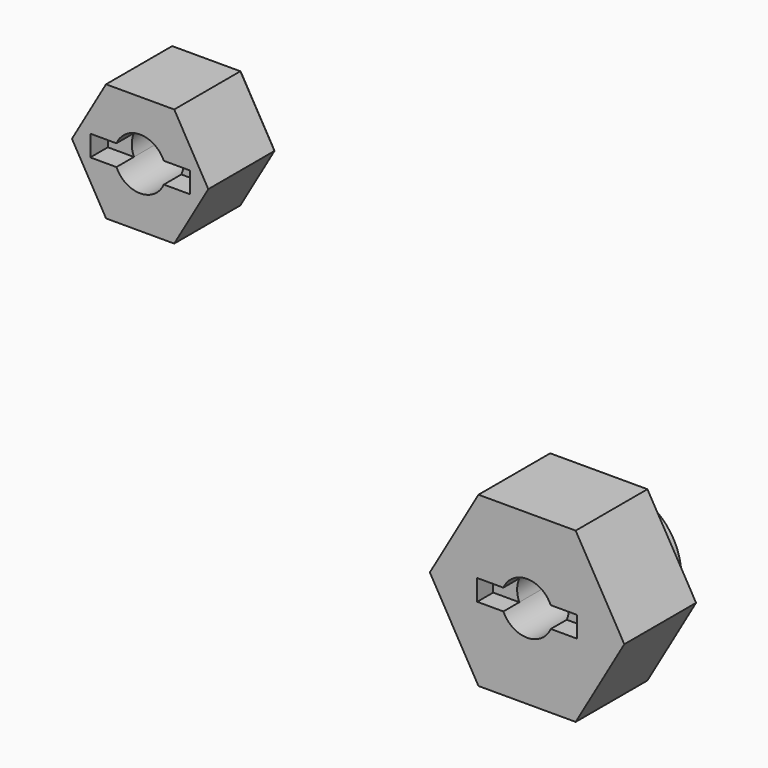
from build123d import *

# Parameters (mm, degrees)
F1_DEPTH = 9
F2_DEPTH = 6.8
F3_SIZE  = 0.7
F4_R     = 5.875
F5_DEPTH = 9
F6_DEPTH = 7
F7_DEPTH = 3


with BuildPart() as f1:
    # F0 (on Front) → F1 (new body)
    with BuildSketch(Plane.XZ):
        Polygon((-35.409845, 32.054033), (-42.251446, 32.054033), (-45.672246, 26.129033), (-42.251446, 20.204033), (-35.409845, 20.204033), (-31.989045, 26.129033), align=None)
        with BuildLine():
            ThreePointArc((-41.209195, 27.179033), (-38.830645, 28.729033), (-36.452095, 27.179033))
            Line((-36.452095, 27.179033), (-33.830645, 27.179033))
            Line((-33.830645, 27.179033), (-33.830645, 25.079033))
            Line((-33.830645, 25.079033), (-36.452095, 25.079033))
            ThreePointArc((-36.452095, 25.079033), (-38.830645, 23.529033), (-41.209195, 25.079033))
            Line((-41.209195, 25.079033), (-43.830645, 25.079033))
            Line((-43.830645, 25.079033), (-43.830645, 27.179033))
            Line((-43.830645, 27.179033), (-41.209195, 27.179033))
        make_face(mode=Mode.SUBTRACT)
    extrude(amount=F1_DEPTH)

    # F0 (on Front) → F2 (join)
    with BuildSketch(Plane.XZ):
        with BuildLine():
            ThreePointArc((-41.209195, 25.079033), (-41.430645, 26.129033), (-41.209195, 27.179033))
            Line((-41.209195, 27.179033), (-43.830645, 27.179033))
            Line((-43.830645, 27.179033), (-43.830645, 25.079033))
            Line((-43.830645, 25.079033), (-41.209195, 25.079033))
        make_face()
        with BuildLine():
            ThreePointArc((-36.452095, 27.179033), (-36.28661, 26.665583), (-36.230645, 26.129033))
            ThreePointArc((-36.230645, 26.129033), (-36.28661, 25.592484), (-36.452095, 25.079033))
            Line((-36.452095, 25.079033), (-33.830645, 25.079033))
            Line((-33.830645, 25.079033), (-33.830645, 27.179033))
            Line((-33.830645, 27.179033), (-36.452095, 27.179033))
        make_face()
    extrude(amount=F2_DEPTH)

    # F3
    f3_edges = [f1.edges().sort_by_distance(p)[0] for p in [
        (-33.699445, 0, 29.091533),
        (-33.699445, 0, 23.166533),
        (-38.830645, 0, 20.204033),
        (-43.961846, 0, 23.166533),
        (-43.961846, 0, 29.091533),
        (-38.830645, 0, 32.054033),
    ]]
    chamfer(f3_edges, length=F3_SIZE)


with BuildPart() as f5:
    # F4 (on Front) → F5 (new body)
    with BuildSketch(Plane.XZ):
        Polygon((4.87861, 7.95), (-4.87861, 7.95), (-9.75722, -0.5), (-4.87861, -8.95), (4.87861, -8.95), (9.75722, -0.5), align=None)
        with Locations((0, -0.5)):
            Circle(F4_R, mode=Mode.SUBTRACT)
        with Locations((0, -0.5)):
            Circle(F4_R)
        with BuildLine():
            ThreePointArc((-2.37855, 0.55), (0, 2.1), (2.37855, 0.55))
            Line((2.37855, 0.55), (5, 0.55))
            Line((5, 0.55), (5, -1.55))
            Line((5, -1.55), (2.37855, -1.55))
            ThreePointArc((2.37855, -1.55), (0, -3.1), (-2.37855, -1.55))
            Line((-2.37855, -1.55), (-5, -1.55))
            Line((-5, -1.55), (-5, 0.55))
            Line((-5, 0.55), (-2.37855, 0.55))
        make_face(mode=Mode.SUBTRACT)
    extrude(amount=F5_DEPTH)

    # F4 (on Front) → F6 (join)
    with BuildSketch(Plane.XZ):
        with BuildLine():
            ThreePointArc((-2.37855, -1.55), (-2.6, -0.5), (-2.37855, 0.55))
            Line((-2.37855, 0.55), (-5, 0.55))
            Line((-5, 0.55), (-5, -1.55))
            Line((-5, -1.55), (-2.37855, -1.55))
        make_face()
        with BuildLine():
            ThreePointArc((2.37855, 0.55), (2.544035, 0.036549), (2.6, -0.5))
            ThreePointArc((2.6, -0.5), (2.544035, -1.036549), (2.37855, -1.55))
            Line((2.37855, -1.55), (5, -1.55))
            Line((5, -1.55), (5, 0.55))
            Line((5, 0.55), (2.37855, 0.55))
        make_face()
    extrude(amount=F6_DEPTH)

    # F4 (on Front) → F7 (join)
    with BuildSketch(Plane.XZ):
        with Locations((0, -0.5)):
            Circle(F4_R)
        with BuildLine():
            ThreePointArc((-2.37855, 0.55), (0, 2.1), (2.37855, 0.55))
            Line((2.37855, 0.55), (5, 0.55))
            Line((5, 0.55), (5, -1.55))
            Line((5, -1.55), (2.37855, -1.55))
            ThreePointArc((2.37855, -1.55), (0, -3.1), (-2.37855, -1.55))
            Line((-2.37855, -1.55), (-5, -1.55))
            Line((-5, -1.55), (-5, 0.55))
            Line((-5, 0.55), (-2.37855, 0.55))
        make_face(mode=Mode.SUBTRACT)
        with BuildLine():
            ThreePointArc((-2.37855, -1.55), (-2.6, -0.5), (-2.37855, 0.55))
            Line((-2.37855, 0.55), (-5, 0.55))
            Line((-5, 0.55), (-5, -1.55))
            Line((-5, -1.55), (-2.37855, -1.55))
        make_face()
        with BuildLine():
            ThreePointArc((2.37855, 0.55), (2.544035, 0.036549), (2.6, -0.5))
            ThreePointArc((2.6, -0.5), (2.544035, -1.036549), (2.37855, -1.55))
            Line((2.37855, -1.55), (5, -1.55))
            Line((5, -1.55), (5, 0.55))
            Line((5, 0.55), (2.37855, 0.55))
        make_face()
    extrude(amount=-F7_DEPTH)


solid = Compound([f1.part, f5.part])
